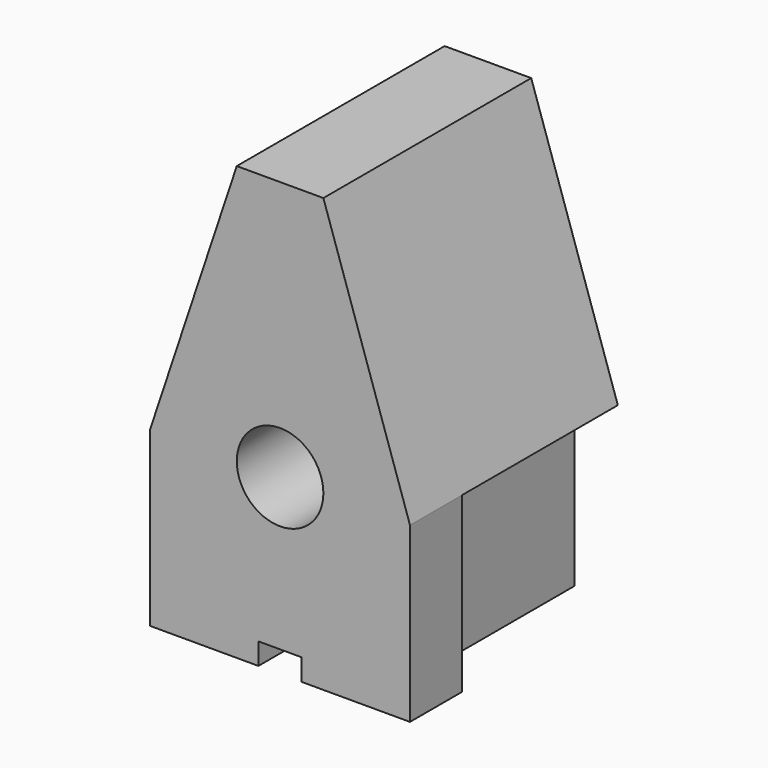
from build123d import *

# Parameters (mm, degrees)
F0_R     = 10
F1_DEPTH = 60
F2_W     = 10
F2_H     = 40
F3_DEPTH = 45
F5_DEPTH = 5


with BuildPart() as f1:
    # F0 (on Front) → F1 (new body)
    with BuildSketch(Plane.XZ):
        Polygon((-30, 40), (-30, 0), (30, 0), (30, 40), (10, 100), (-10, 100), align=None)
        with Locations((0, 40)):
            Circle(F0_R, mode=Mode.SUBTRACT)
    extrude(amount=F1_DEPTH)

    # F2 (on face) → F3 (cut)
    with BuildSketch(Plane(origin=(0, 0, 0), x_dir=(-1, 0, 0), z_dir=(0, 1, 0))):
        with Locations((25, 20)):
            Rectangle(F2_W, F2_H)
        with Locations((-25, 20)):
            Rectangle(F2_W, F2_H)
    extrude(amount=-F3_DEPTH, mode=Mode.SUBTRACT)

    # F4 (on Right) → F5 (cut, symmetric)
    with BuildSketch(Plane.YZ):
        Polygon((-60, 5), (-60, 0), (-45, 0), (0, 0), (0, 15), align=None)
    extrude(amount=F5_DEPTH, both=True, mode=Mode.SUBTRACT)


solid = f1.part
